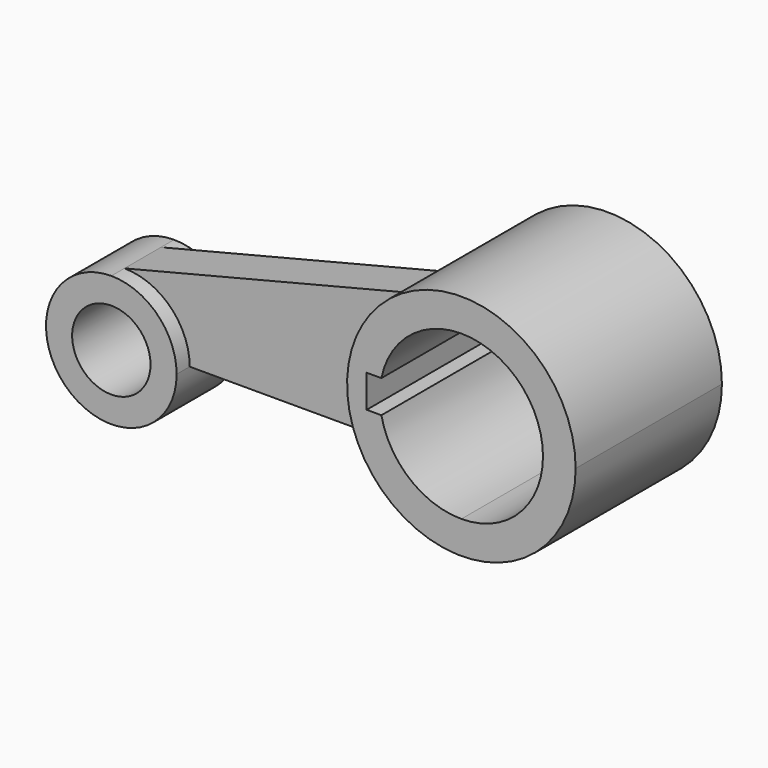
from build123d import *

# Parameters (mm, degrees)
F0_R          = 12
F1_DEPTH      = 12
F1_DEPTH_BACK = 12
F2_DEPTH      = 7
F2_DEPTH_BACK = 7
F3_DEPTH      = 28
F3_DEPTH_BACK = 28


with BuildPart() as f1:
    # F0 (on Front) → F1 (new body, two sides)
    with BuildSketch(Plane.XZ) as f1_sk:
        with BuildLine():
            ThreePointArc((-29.435681, 0), (-43.577817, -34.142136), (-9.435681, -20))
            ThreePointArc((-9.435681, -20), (-15.293546, -5.857864), (-29.435681, 0))
        make_face()
        with Locations((-29.435681, -20)):
            Circle(F0_R, mode=Mode.SUBTRACT)
    extrude(amount=F1_DEPTH)
    extrude(f1_sk.sketch, amount=-F1_DEPTH_BACK)

    # F0 (on Front) → F2 (join, two sides)
    with BuildSketch(Plane.XZ) as f2_sk:
        with BuildLine():
            ThreePointArc((-29.435681, 0), (-15.293546, -5.857864), (-9.435681, -20))
            Line((-9.435681, -20), (66.069421, -20))
            ThreePointArc((66.069421, -20), (55.894649, 0.20271), (60.201199, 22.40922))
            Line((60.201199, 22.40922), (-29.435681, 0))
        make_face()
    extrude(amount=F2_DEPTH)
    extrude(f2_sk.sketch, amount=-F2_DEPTH_BACK)

    # F0 (on Front) → F3 (join, two sides)
    with BuildSketch(Plane.XZ) as f3_sk:
        with BuildLine():
            ThreePointArc((60.201199, 22.40922), (55.894649, 0.20271), (66.069421, -20))
            ThreePointArc((66.069421, -20), (104.123054, -27.267022), (125.564319, 5))
            ThreePointArc((125.564319, 5), (99.572393, 38.82092), (60.201199, 22.40922))
        make_face()
        with BuildLine():
            ThreePointArc((115.564319, 5), (108.241988, -12.67767), (90.564319, -20))
            ThreePointArc((90.564319, -20), (74.752931, -14.364917), (66.069421, 0))
            Line((66.069421, 0), (61.564319, 0))
            Line((61.564319, 0), (61.564319, 5))
            Line((61.564319, 5), (61.564319, 10))
            Line((61.564319, 10), (66.069421, 10))
            ThreePointArc((66.069421, 10), (74.752931, 24.364917), (90.564319, 30))
            ThreePointArc((90.564319, 30), (108.241988, 22.67767), (115.564319, 5))
        make_face(mode=Mode.SUBTRACT)
    extrude(amount=F3_DEPTH)
    extrude(f3_sk.sketch, amount=-F3_DEPTH_BACK)


solid = f1.part
